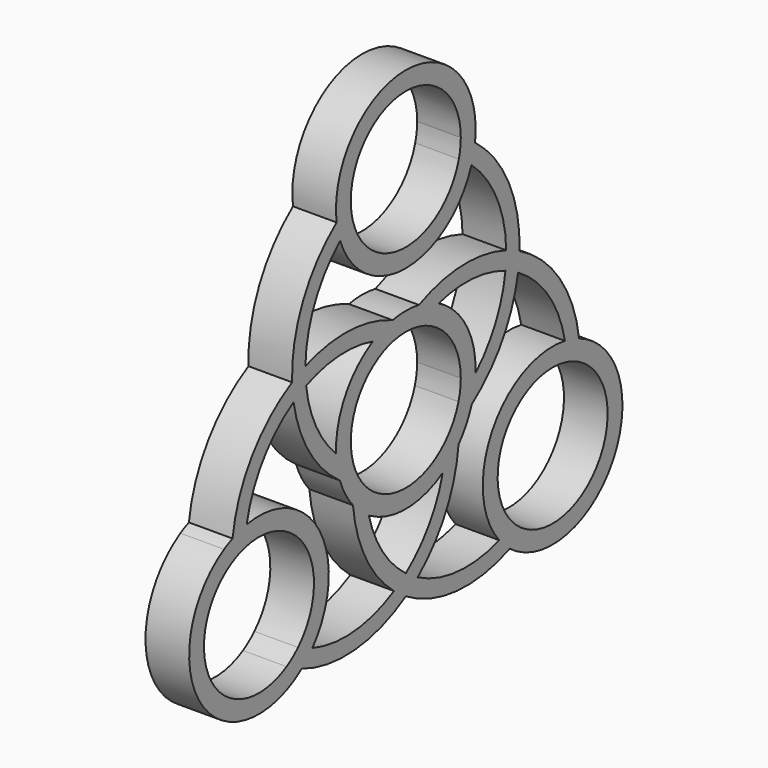
from build123d import *

# Parameters (mm, degrees)
F1_DEPTH = 177.8
F2_COUNT = 3


with BuildPart() as f1:
    # F0 (on Right) → F1 (new body)
    with BuildSketch(Plane.YZ):
        with BuildLine():
            ThreePointArc((-268.4926933874, -79.5693082951), (-313.7669030634, -48.1461873832), (-355.396348822, -12.0330895451))
            ThreePointArc((-355.396348822, -12.0330895451), (-349.6172674569, -64.9548019471), (-336.0023494952, -116.4207074952))
            ThreePointArc((-336.0023494952, -116.4207074952), (-275.6466077337, -154.0273882117), (-211.1384628897, -183.9569262452))
            ThreePointArc((-211.1384628897, -183.9569262452), (-245.4296339346, -134.8476770721), (-268.4926933874, -79.5693082951))
        make_face()
        with BuildLine():
            ThreePointArc((-336.0023494952, -116.4207074952), (-349.6172674569, -64.9548019471), (-355.396348822, -12.0330895451))
            ThreePointArc((-355.396348822, -12.0330895451), (-511.134133308, 369.8320431433), (-334.3887781327, 742.4394994612))
            ThreePointArc((-334.3887781327, 742.4394994612), (-345.3149861043, 778.5114296956), (-352.361893863, 815.5371945428))
            ThreePointArc((-352.361893863, 815.5371945428), (-579.3079627247, 345.4308557736), (-336.0023494952, -116.4207074952))
        make_face()
        with BuildLine():
            ThreePointArc((511.3322337625, 355.6), (470.7367959904, 155.9314692167), (355.396348822, -12.0330895451))
            ThreePointArc((355.396348822, -12.0330895451), (349.6172674569, -64.9548019471), (336.0023494952, -116.4207074952))
            ThreePointArc((336.0023494952, -116.4207074952), (514.9659945491, 90.0606401517), (579.3972101854, 355.6))
            ThreePointArc((579.3972101854, 355.6), (519.5472189563, 612.0601615171), (352.361893863, 815.5371945428))
            ThreePointArc((352.361893863, 815.5371945428), (345.3149861043, 778.5114296956), (334.3887781327, 742.4394994612))
            ThreePointArc((334.3887781327, 742.4394994612), (464.9969968463, 568.2933149123), (511.3322337625, 355.6))
        make_face()
        with BuildLine():
            ThreePointArc((336.0023494952, -116.4207074952), (349.6172674569, -64.9548019471), (355.396348822, -12.0330895451))
            ThreePointArc((355.396348822, -12.0330895451), (313.7669030634, -48.1461873832), (268.4926933874, -79.5693082951))
            ThreePointArc((268.4926933874, -79.5693082951), (245.4296339346, -134.8476770721), (211.1384628897, -183.9569262452))
            ThreePointArc((211.1384628897, -183.9569262452), (275.6466077337, -154.0273882117), (336.0023494952, -116.4207074952))
        make_face()
        with BuildLine():
            ThreePointArc((-211.1384628897, -183.9569262452), (-275.6466077337, -154.0273882117), (-336.0023494952, -116.4207074952))
            ThreePointArc((-336.0023494952, -116.4207074952), (0, -355.6), (336.0023494952, -116.4207074952))
            ThreePointArc((336.0023494952, -116.4207074952), (275.6466077337, -154.0273882117), (211.1384628897, -183.9569262452))
            ThreePointArc((211.1384628897, -183.9569262452), (0, -280.035), (-211.1384628897, -183.9569262452))
        make_face()
        with BuildLine():
            ThreePointArc((-352.361893863, 815.5371945428), (-345.3149861043, 778.5114296956), (-334.3887781327, 742.4394994612))
            ThreePointArc((-334.3887781327, 742.4394994612), (-303.2012975673, 767.3397557172), (-270.1668730977, 789.7319084854))
            ThreePointArc((-270.1668730977, 789.7319084854), (-277.5178808464, 825.9544493975), (-280.0343843816, 862.8296035669))
            ThreePointArc((-280.0343843816, 862.8296035669), (-317.0810719236, 840.5337284603), (-352.361893863, 815.5371945428))
        make_face()
        with BuildLine():
            ThreePointArc((355.6, 863.4167909622), (-23.994484182, 1218.2063408771), (-352.361893863, 815.5371945428))
            ThreePointArc((-352.361893863, 815.5371945428), (-317.0810719236, 840.5337284603), (-280.0343843816, 862.8296035669))
            ThreePointArc((-280.0343843816, 862.8296035669), (-0.293593859, 1143.4516370576), (280.035, 863.4167909622))
            ThreePointArc((280.035, 863.4167909622), (280.0348460953, 863.1231971032), (280.0343843816, 862.8296035669))
            ThreePointArc((280.0343843816, 862.8296035669), (317.0810719236, 840.5337284603), (352.361893863, 815.5371945428))
            ThreePointArc((352.361893863, 815.5371945428), (354.7895499149, 839.4223067802), (355.6, 863.4167909622))
        make_face()
        with BuildLine():
            ThreePointArc((270.1668730977, 789.7319084854), (303.2012975673, 767.3397557172), (334.3887781327, 742.4394994612))
            ThreePointArc((334.3887781327, 742.4394994612), (345.3149861043, 778.5114296956), (352.361893863, 815.5371945428))
            ThreePointArc((352.361893863, 815.5371945428), (317.0810719236, 840.5337284603), (280.0343843816, 862.8296035669))
            ThreePointArc((280.0343843816, 862.8296035669), (277.5178808464, 825.9544493975), (270.1668730977, 789.7319084854))
        make_face()
        with BuildLine():
            ThreePointArc((-270.1668730977, 789.7319084854), (-303.2012975673, 767.3397557172), (-334.3887781327, 742.4394994612))
            ThreePointArc((-334.3887781327, 742.4394994612), (0, 507.8167909622), (334.3887781327, 742.4394994612))
            ThreePointArc((334.3887781327, 742.4394994612), (303.2012975673, 767.3397557172), (270.1668730977, 789.7319084854))
            ThreePointArc((270.1668730977, 789.7319084854), (0, 583.3817909622), (-270.1668730977, 789.7319084854))
        make_face()
        with BuildLine():
            ThreePointArc((355.396348822, -12.0330895451), (355.5490835603, -6.0174063724), (355.6, 0))
            ThreePointArc((355.6, 0), (-6.0174063724, 355.5490835603), (-355.396348822, -12.0330895451))
            ThreePointArc((-355.396348822, -12.0330895451), (-313.7669030634, -48.1461873832), (-268.4926933874, -79.5693082951))
            ThreePointArc((-268.4926933874, -79.5693082951), (-40.2010561568, 277.1344011646), (280.035, 0))
            ThreePointArc((280.035, 0), (277.1344011646, -40.2010561568), (268.4926933874, -79.5693082951))
            ThreePointArc((268.4926933874, -79.5693082951), (313.7669030634, -48.1461873832), (355.396348822, -12.0330895451))
        make_face()
    extrude(amount=F1_DEPTH)

    # F2: F1 ×3 about axis
    f2_axis = Axis((0, -4e-10, 0), (-1, 0, 0))


with BuildPart() as f1_1:
    add(f1.part)
    for i in range(1, F2_COUNT):
        add(f1.part.rotate(f2_axis, i * 360 / F2_COUNT))


solid = f1_1.part
